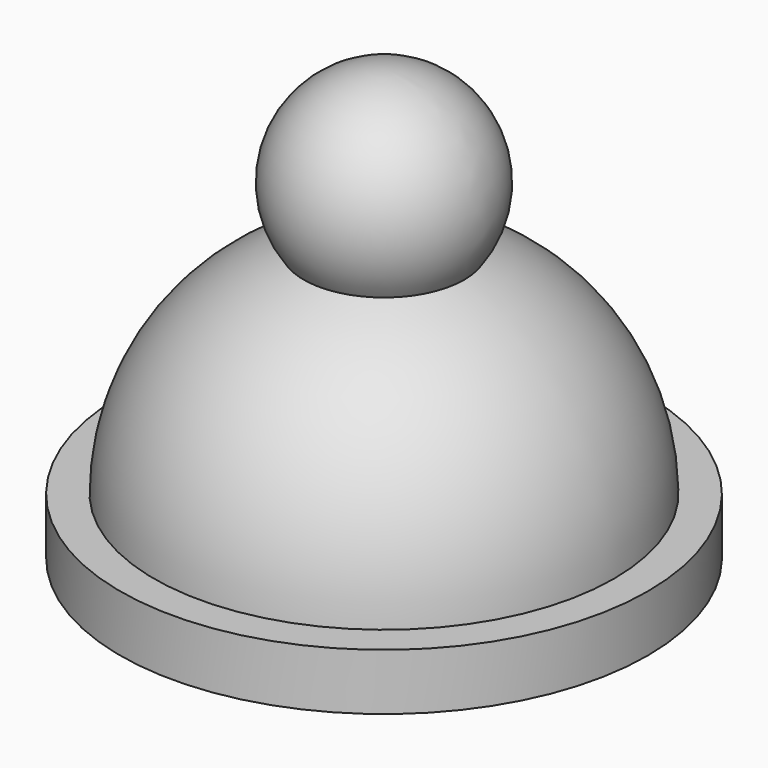
from build123d import *


with BuildPart() as f2:
    # F0 (on Front) → F2 (revolve)
    with BuildSketch(Plane.XZ):
        Polygon((-1.0581945665, -51.0439767144), (-1.0581945665, -55.4898598748), (19.9970888271, -55.4898598748), (19.9970888271, -50.9780192333), (17.2899438442, -50.9780192333), (-1.0581945665, -50.9780192333), align=None)
        with BuildLine():
            Line((-1.0581945665, -33.853504611), (-1.0581945665, -50.9780192333))
            Line((-1.0581945665, -50.9780192333), (17.2899438442, -50.9780192333))
            ThreePointArc((17.2899438442, -50.9780192333), (13.9953662741, -40.5535601571), (5.3563360002, -33.853504611))
            Line((5.3563360002, -33.853504611), (-1.0581945665, -33.853504611))
        make_face()
    revolve(axis=Axis((-1.0581945665, 0, -36.0689994687), (0, 0, 1)))


with BuildPart() as f2b:
    # F0 (on Front) → F2, piece 2 (revolve)
    with BuildSketch(Plane.XZ):
        with BuildLine():
            Line((-1.0581945665, -29.0861408293), (-1.0581945665, -32.6957197529))
            ThreePointArc((-1.0581945665, -32.6957197529), (2.2008953436, -32.9874857351), (5.3563360002, -33.853504611))
            ThreePointArc((5.3563360002, -33.853504611), (6.0823690178, -25.4963899302), (-1.0581945665, -21.0940222229))
            Line((-1.0581945665, -21.0940222229), (-1.0581945665, -26.4293123037))
            ThreePointArc((-1.0581945665, -26.4293123037), (0.2079947465, -27.7577265665), (-1.0581945665, -29.0861408293))
        make_face()
    revolve(axis=Axis((-1.0581945665, 0, -36.0689994687), (0, 0, 1)))


solid = Compound([f2.part, f2b.part])
